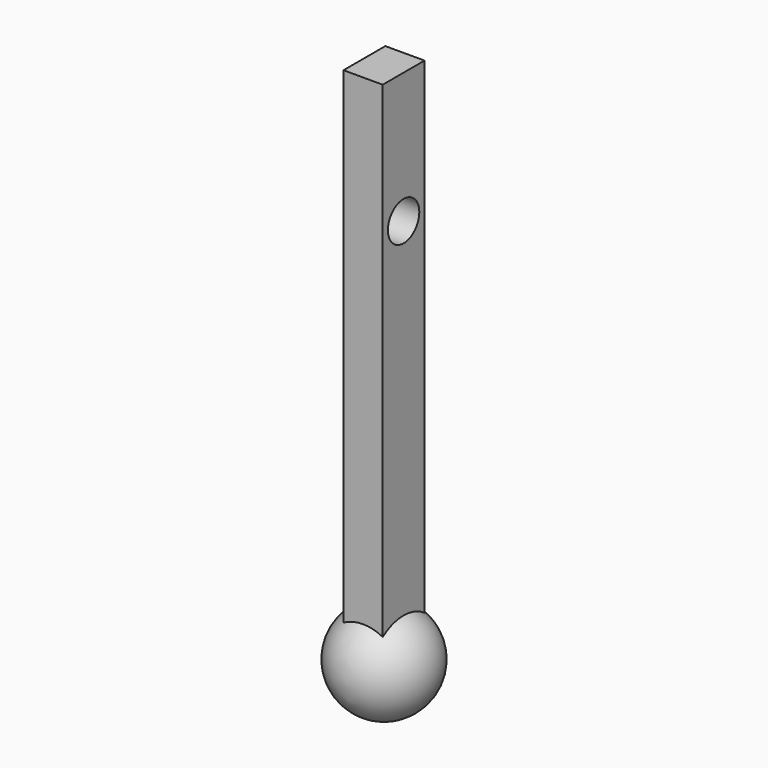
from build123d import *

# Parameters (mm, degrees)
F2_W          = 7.62
F2_H          = 10.1600026736
F3_DEPTH      = 101.6
F4_R          = 3.81
F5_DEPTH      = 9.526
F5_DEPTH_BACK = 9.526


with BuildPart() as f1:
    # F0 (on Right) → F1 (revolve)
    with BuildSketch(Plane.YZ):
        with BuildLine():
            ThreePointArc((0, 9.525), (-9.525, 0), (0, -9.525))
            Line((0, -9.525), (0, 9.525))
        make_face()
    revolve(axis=Axis((0, 0, 0), (0, 0, 1)))

    # F2 (on Top) → F3 (join)
    with BuildSketch(Plane.XY):
        Rectangle(F2_W, F2_H)
    extrude(amount=F3_DEPTH)

    # F4 (on Right) → F5 (cut, two sides)
    with BuildSketch(Plane.YZ) as f5_sk:
        with Locations((0, 76.2)):
            Circle(F4_R)
    extrude(amount=-F5_DEPTH, mode=Mode.SUBTRACT)
    extrude(f5_sk.sketch, amount=F5_DEPTH_BACK, mode=Mode.SUBTRACT)


solid = f1.part
